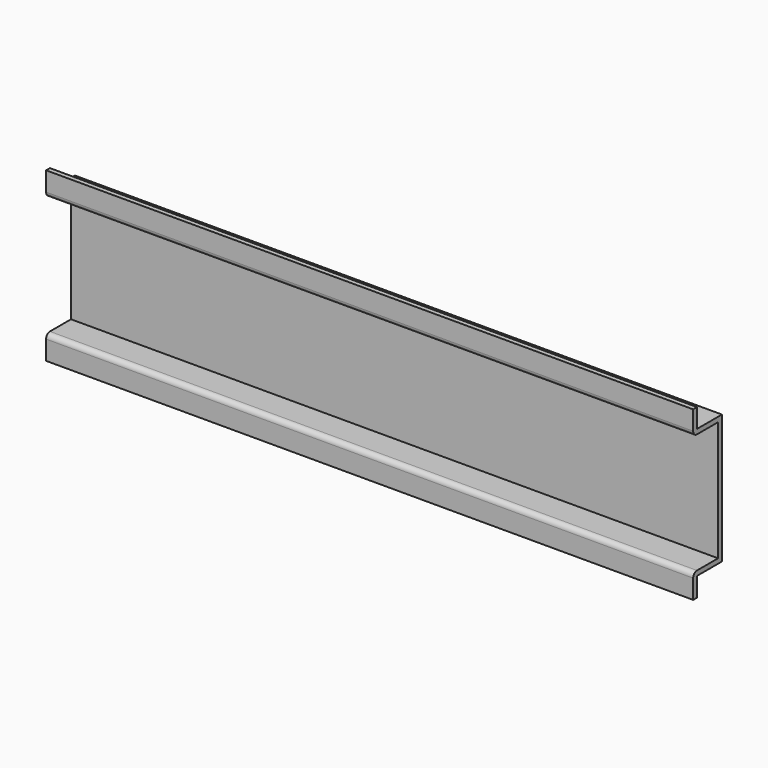
from build123d import *

# Parameters (mm, degrees)
PAD005_DEPTH = 67.5
FILLET_R     = 1
FILLET001_R  = 1


with BuildPart() as part:
    # Sketch005 → Pad005 (new body, symmetric)
    with BuildSketch(Plane.YZ):
        Polygon((0, 13.5), (0, -13.5), (-6.5, -13.5), (-6.5, -17.5), (-7.5, -17.5), (-7.5, -12.5), (-1, -12.5), (-1, 12.5), (-7.5, 12.5), (-7.5, 17.5), (-6.5, 17.5), (-6.5, 13.5), align=None)
    extrude(amount=PAD005_DEPTH, both=True)

    # Fillet
    fillet_edges = [part.edges().sort_by_distance(p)[0] for p in [
        (0, -7.5, -12.5),
    ]]
    fillet(fillet_edges, radius=FILLET_R)

    # Fillet001
    fillet001_edges = [part.edges().sort_by_distance(p)[0] for p in [
        (0, -7.5, 12.5),
    ]]
    fillet(fillet001_edges, radius=FILLET001_R)


solid = part.part
